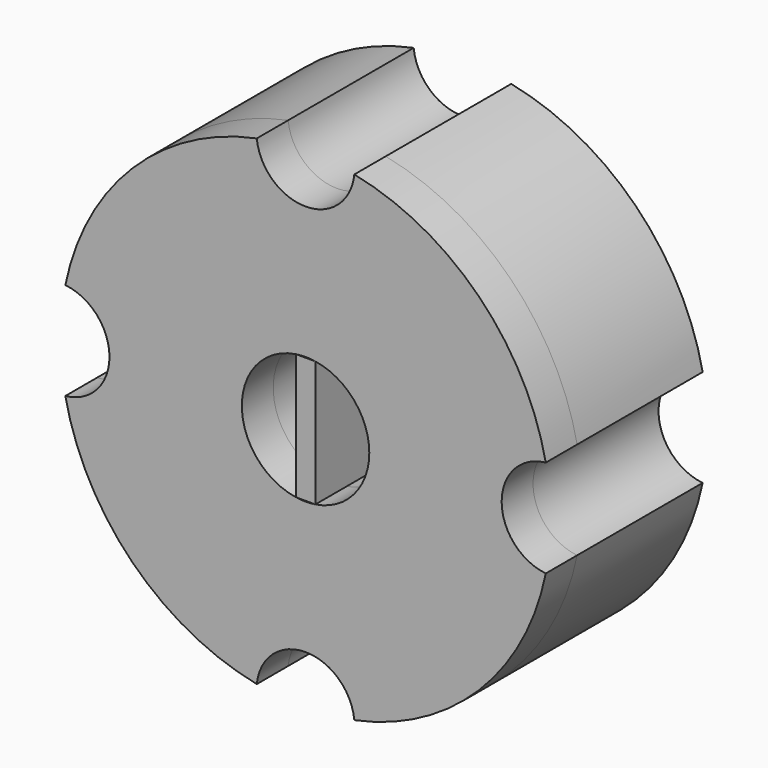
from build123d import *

# Parameters (mm, degrees)
F0_R     = 12.5
F0_W     = 1
F0_H     = 6.422616
F1_DEPTH = 10
F2_DEPTH = 5.8
F3_D     = 5
F4_DEPTH = 8
F5_D     = 5


with BuildPart() as f1:
    # F0 (on Front) → F1 (new body)
    with BuildSketch(Plane.XZ):
        Circle(F0_R)
        with BuildLine():
            ThreePointArc((0.5, 3.211308), (2.468552, 2.113942), (3.25, 0))
            ThreePointArc((3.25, 0), (2.468552, -2.113942), (0.5, -3.211308))
            ThreePointArc((0.5, -3.211308), (0, -3.25), (-0.5, -3.211308))
            ThreePointArc((-0.5, -3.211308), (-3.25, 0), (-0.5, 3.211308))
            ThreePointArc((-0.5, 3.211308), (0, 3.25), (0.5, 3.211308))
        make_face(mode=Mode.SUBTRACT)
        Rectangle(F0_W, F0_H)
    extrude(amount=F1_DEPTH)

    # F3 (through all)
    with Locations(Plane(origin=(0, 0, 0), x_dir=(1, 0, 0), z_dir=(0, 1, 0))):
        with Locations((0, 12.5), (12.5, 0), (-12.5, 0), (0, -12.5)):
            Hole(F3_D / 2)


with BuildPart() as f2:
    # F0 (on Front) → F2 (new body)
    with BuildSketch(Plane.XZ):
        with BuildLine():
            ThreePointArc((0.5, -3.211308), (2.468552, -2.113942), (3.25, 0))
            ThreePointArc((3.25, 0), (2.468552, 2.113942), (0.5, 3.211308))
            Line((0.5, 3.211308), (0.5, -3.211308))
        make_face()
        with BuildLine():
            Line((-0.5, -3.211308), (-0.5, 3.211308))
            ThreePointArc((-0.5, 3.211308), (-3.25, 0), (-0.5, -3.211308))
        make_face()
    extrude(amount=F2_DEPTH)


with BuildPart() as f4:
    # F0 (on Front) → F4 (new body)
    with BuildSketch(Plane.XZ):
        Circle(F0_R)
        with BuildLine():
            ThreePointArc((0.5, 3.211308), (2.468552, 2.113942), (3.25, 0))
            ThreePointArc((3.25, 0), (2.468552, -2.113942), (0.5, -3.211308))
            ThreePointArc((0.5, -3.211308), (0, -3.25), (-0.5, -3.211308))
            ThreePointArc((-0.5, -3.211308), (-3.25, 0), (-0.5, 3.211308))
            ThreePointArc((-0.5, 3.211308), (0, 3.25), (0.5, 3.211308))
        make_face(mode=Mode.SUBTRACT)
    extrude(amount=F4_DEPTH)

    # F5 (through all)
    with Locations(Plane(origin=(0, 0, 0), x_dir=(1, 0, 0), z_dir=(0, 1, 0))):
        with Locations((0, 12.5), (12.5, 0), (-12.5, 0), (0, -12.5)):
            Hole(F5_D / 2)


solid = Compound([f1.part, f2.part, f4.part])
